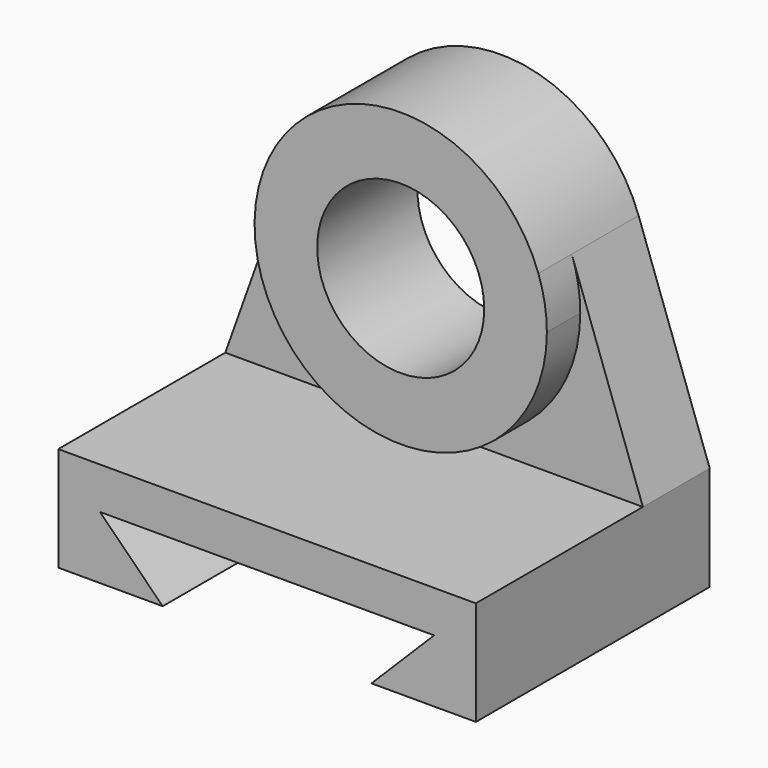
from build123d import *

# Parameters (mm, degrees)
F1_DEPTH = 127
F0_R     = 50.8
F2_DEPTH = 50.8
F3_DEPTH = 25.4


with BuildPart() as f1:
    # F0 (on Front) → F1 (new body)
    with BuildSketch(Plane.XZ):
        Polygon((254, 0), (0, 0), (0, -63.5), (63.5, -63.5), (25.4, -25.4), (228.6, -25.4), (190.5, -63.5), (254, -63.5), align=None)
    extrude(amount=F1_DEPTH)

    # F0 (on Front) → F2 (join)
    with BuildSketch(Plane.XZ):
        with BuildLine():
            Line((43.266761, 121.30561), (0, 0))
            Line((0, 0), (254, 0))
            Line((254, 0), (210.733239, 121.30561))
            ThreePointArc((210.733239, 121.30561), (214.598787, 106.59462), (215.9, 91.44))
            ThreePointArc((215.9, 91.44), (111.84538, 3.841213), (43.266761, 121.30561))
        make_face()
        Polygon((254, 0), (0, 0), (0, -63.5), (63.5, -63.5), (25.4, -25.4), (228.6, -25.4), (190.5, -63.5), (254, -63.5), align=None)
        with BuildLine():
            ThreePointArc((210.733239, 121.30561), (127, 180.34), (43.266761, 121.30561))
            ThreePointArc((43.266761, 121.30561), (111.84538, 3.841213), (215.9, 91.44))
            ThreePointArc((215.9, 91.44), (214.598787, 106.59462), (210.733239, 121.30561))
        make_face()
        with Locations((127, 91.44)):
            Circle(F0_R, mode=Mode.SUBTRACT)
    extrude(amount=-F2_DEPTH)

    # F0 (on Front) → F3 (join)
    with BuildSketch(Plane.XZ):
        with BuildLine():
            ThreePointArc((210.733239, 121.30561), (127, 180.34), (43.266761, 121.30561))
            ThreePointArc((43.266761, 121.30561), (111.84538, 3.841213), (215.9, 91.44))
            ThreePointArc((215.9, 91.44), (214.598787, 106.59462), (210.733239, 121.30561))
        make_face()
        with Locations((127, 91.44)):
            Circle(F0_R, mode=Mode.SUBTRACT)
    extrude(amount=F3_DEPTH)


solid = f1.part
